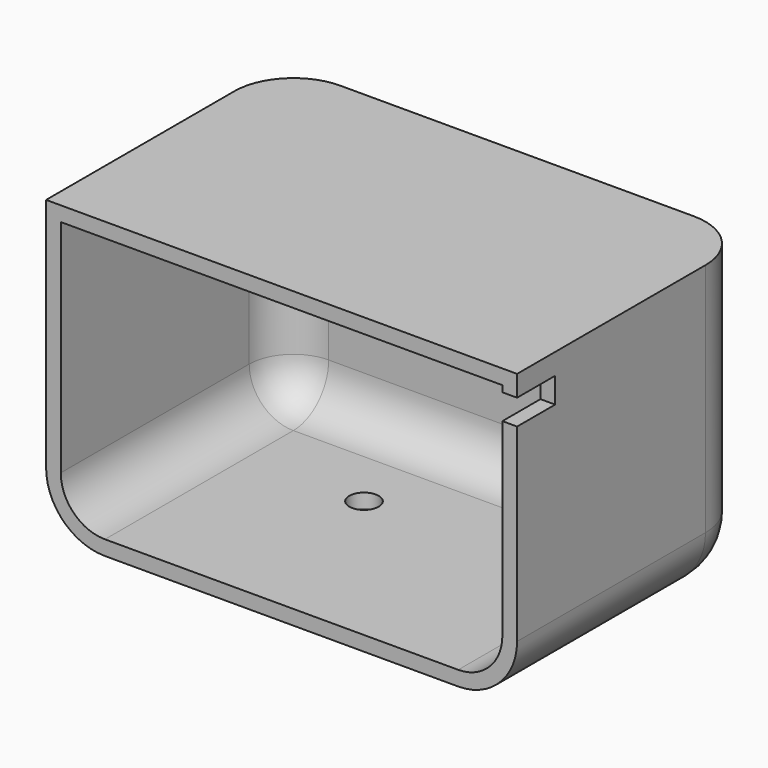
from build123d import *

# Parameters (mm, degrees)
F0_W     = 80
F0_H     = 50
F1_DEPTH = 50
F2_R     = 10
F3_T     = -2.5
F5_D     = 5
F5_DEPTH = 12
F6_W     = 8.087612
F6_H     = 4.312344
F7_DEPTH = 25


with BuildPart() as f1:
    # F0 (on Front) → F1 (new body)
    with BuildSketch(Plane.XZ):
        Rectangle(F0_W, F0_H)
    extrude(amount=F1_DEPTH)

    # F2
    f2_edges = [f1.edges().sort_by_distance(p)[0] for p in [
        (40, -25, -25),
        (-40, -25, -25),
        (40, 0, 0),
        (0, 0, -25),
        (-40, 0, 0),
    ]]
    fillet(f2_edges, radius=F2_R)

    # F3
    f3_openings = [f1.faces().sort_by_distance(p)[0] for p in [
        (0, -50, 0.246934),
    ]]
    offset(amount=F3_T, openings=f3_openings)

    # F5
    with Locations(Plane(origin=(0, 0, -25), x_dir=(1, 0, 0), z_dir=(0, 0, -1))):
        with Locations((-10, 20)):
            Hole(F5_D / 2, depth=F5_DEPTH)

    # F6 (on face) → F7 (cut)
    with BuildSketch(Plane.YZ.offset(40)):
        with Locations((-45.956194, 19.277418)):
            Rectangle(F6_W, F6_H)
    extrude(amount=-F7_DEPTH, mode=Mode.SUBTRACT)


solid = f1.part
